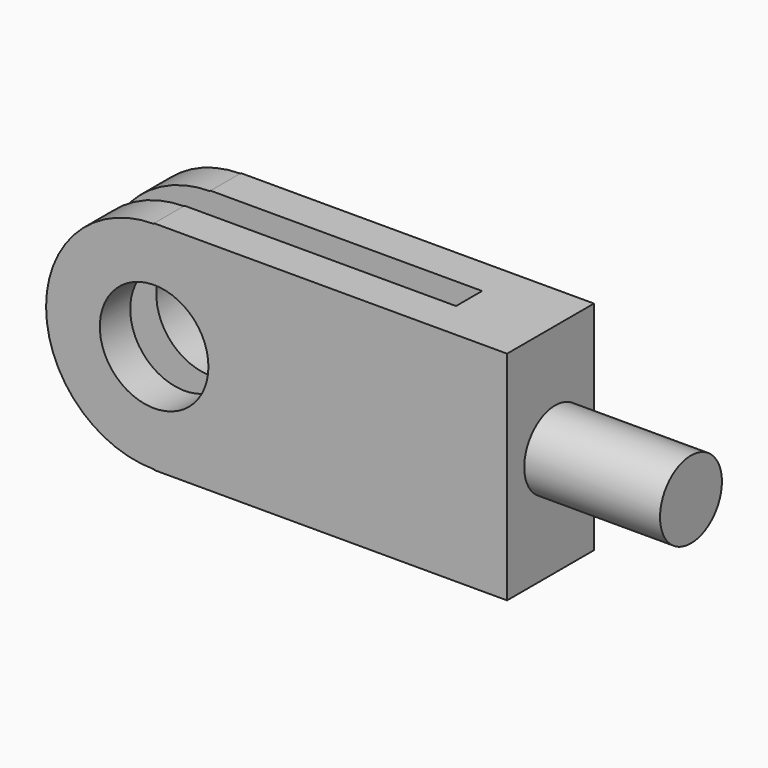
from build123d import *

# Parameters (mm, degrees)
F0_R     = 10
F1_DEPTH = 20
F2_W     = 74.504801
F2_H     = 6
F3_DEPTH = 40
F4_R     = 7.126224
F5_DEPTH = 25


with BuildPart() as f1:
    # F0 (on Front) → F1 (new body)
    with BuildSketch(Plane.XZ):
        with BuildLine():
            Line((-65, 0), (0, 0))
            Line((0, 0), (0, 40))
            Line((0, 40), (-65, 40))
            Line((-65, 40), (-65, 39.89539))
            ThreePointArc((-65, 39.89539), (-84.89539, 20), (-65, 0.10461))
            Line((-65, 0.10461), (-65, 0))
        make_face()
        with Locations((-65, 20)):
            Circle(F0_R, mode=Mode.SUBTRACT)
    extrude(amount=F1_DEPTH)

    # F2 (on face) → F3 (cut, through all)
    with BuildSketch(Plane.XY.offset(40)):
        with Locations((-52.252401, -10)):
            Rectangle(F2_W, F2_H)
    extrude(amount=-F3_DEPTH, mode=Mode.SUBTRACT)

    # F4 (on face) → F5 (join)
    with BuildSketch(Plane.YZ):
        with Locations((-8.923112, 20)):
            Circle(F4_R)
    extrude(amount=F5_DEPTH)


solid = f1.part
